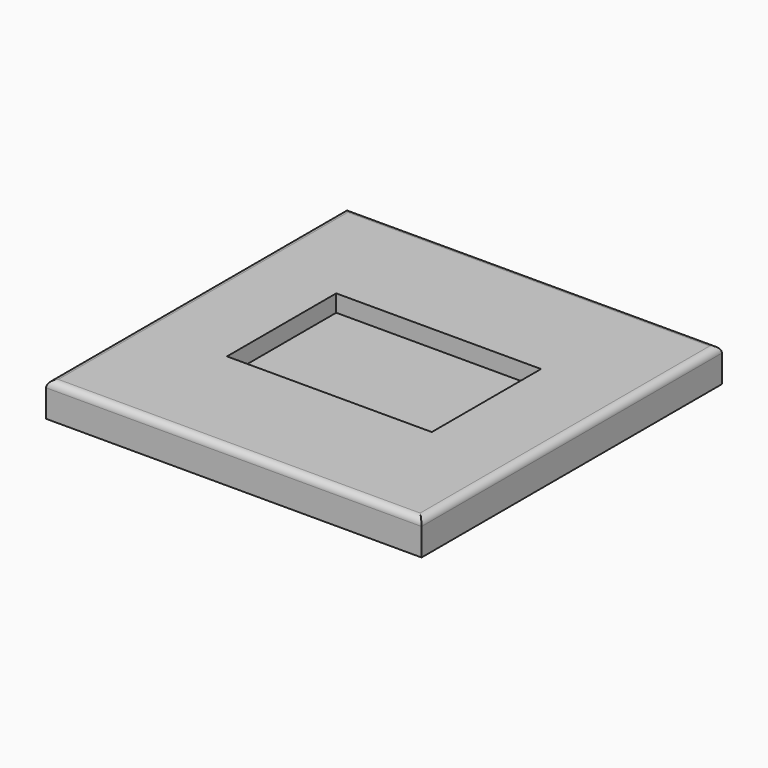
from build123d import *

# Parameters (mm, degrees)
F0_W     = 550
F0_H     = 550
F1_DEPTH = 50
F2_R     = 10
F3_W     = 300
F3_H     = 200
F4_DEPTH = 25
F5_DEPTH = 25


with BuildPart() as f1:
    # F0 (on Top) → F1 (new body)
    with BuildSketch(Plane.XY):
        Rectangle(F0_W, F0_H)
    extrude(amount=F1_DEPTH)

    # F2
    f2_edges = [f1.edges().sort_by_distance(p)[0] for p in [
        (-275, 0, 50),
        (0, 275, 50),
        (275, 0, 50),
        (0, -275, 50),
    ]]
    fillet(f2_edges, radius=F2_R)

    # F3 (on face) → F4 (join)
    with BuildSketch(Plane.XY.offset(50)):
        Rectangle(F3_W, F3_H)
    extrude(amount=-F4_DEPTH)

    # F3 (on face) → F5 (cut)
    with BuildSketch(Plane.XY.offset(50)):
        Rectangle(F3_W, F3_H)
    extrude(amount=-F5_DEPTH, mode=Mode.SUBTRACT)


solid = f1.part
